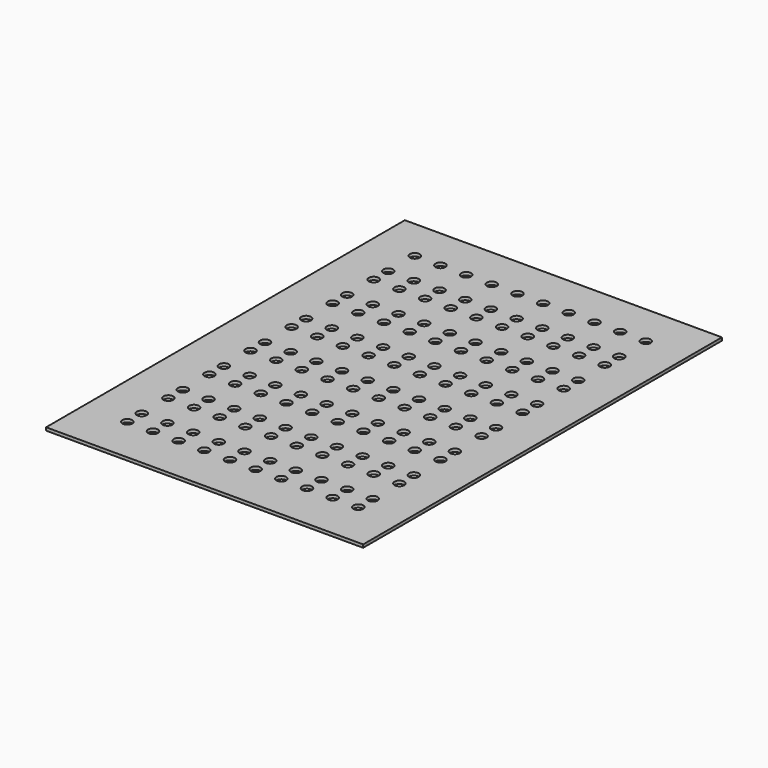
from build123d import *

# Parameters (mm, degrees)
F0_W     = 210
F0_H     = 297
F0_R     = 3.25
F1_DEPTH = 2


with BuildPart() as f1:
    # F0 (on Top) → F1 (new body)
    with BuildSketch(Plane.XY):
        Rectangle(F0_W, F0_H)
        with Locations((-76, -117.5)):
            Circle(F0_R, mode=Mode.SUBTRACT)
        with Locations((-59, -117.5)):
            Circle(F0_R, mode=Mode.SUBTRACT)
        with Locations((-76, -105.5)):
            Circle(F0_R, mode=Mode.SUBTRACT)
        with Locations((-59, -105.5)):
            Circle(F0_R, mode=Mode.SUBTRACT)
        with Locations((-76, -83.5)):
            Circle(F0_R, mode=Mode.SUBTRACT)
        with Locations((-59, -83.5)):
            Circle(F0_R, mode=Mode.SUBTRACT)
        with Locations((-42, -117.5)):
            Circle(F0_R, mode=Mode.SUBTRACT)
        with Locations((-25, -117.5)):
            Circle(F0_R, mode=Mode.SUBTRACT)
        with Locations((-8, -117.5)):
            Circle(F0_R, mode=Mode.SUBTRACT)
        with Locations((-42, -105.5)):
            Circle(F0_R, mode=Mode.SUBTRACT)
        with Locations((-42, -83.5)):
            Circle(F0_R, mode=Mode.SUBTRACT)
        with Locations((-25, -105.5)):
            Circle(F0_R, mode=Mode.SUBTRACT)
        with Locations((-8, -105.5)):
            Circle(F0_R, mode=Mode.SUBTRACT)
        with Locations((-25, -83.5)):
            Circle(F0_R, mode=Mode.SUBTRACT)
        with Locations((-8, -83.5)):
            Circle(F0_R, mode=Mode.SUBTRACT)
        with Locations((-76, -71.5)):
            Circle(F0_R, mode=Mode.SUBTRACT)
        with Locations((-59, -71.5)):
            Circle(F0_R, mode=Mode.SUBTRACT)
        with Locations((-76, -49.5)):
            Circle(F0_R, mode=Mode.SUBTRACT)
        with Locations((-76, -37.5)):
            Circle(F0_R, mode=Mode.SUBTRACT)
        with Locations((-59, -49.5)):
            Circle(F0_R, mode=Mode.SUBTRACT)
        with Locations((-59, -37.5)):
            Circle(F0_R, mode=Mode.SUBTRACT)
        with Locations((-76, -15.5)):
            Circle(F0_R, mode=Mode.SUBTRACT)
        with Locations((-76, -3.5)):
            Circle(F0_R, mode=Mode.SUBTRACT)
        with Locations((-59, -15.5)):
            Circle(F0_R, mode=Mode.SUBTRACT)
        with Locations((-59, -3.5)):
            Circle(F0_R, mode=Mode.SUBTRACT)
        with Locations((-42, -71.5)):
            Circle(F0_R, mode=Mode.SUBTRACT)
        with Locations((-42, -49.5)):
            Circle(F0_R, mode=Mode.SUBTRACT)
        with Locations((-42, -37.5)):
            Circle(F0_R, mode=Mode.SUBTRACT)
        with Locations((-25, -71.5)):
            Circle(F0_R, mode=Mode.SUBTRACT)
        with Locations((-8, -71.5)):
            Circle(F0_R, mode=Mode.SUBTRACT)
        with Locations((-25, -49.5)):
            Circle(F0_R, mode=Mode.SUBTRACT)
        with Locations((-25, -37.5)):
            Circle(F0_R, mode=Mode.SUBTRACT)
        with Locations((-8, -49.5)):
            Circle(F0_R, mode=Mode.SUBTRACT)
        with Locations((-8, -37.5)):
            Circle(F0_R, mode=Mode.SUBTRACT)
        with Locations((-42, -15.5)):
            Circle(F0_R, mode=Mode.SUBTRACT)
        with Locations((-42, -3.5)):
            Circle(F0_R, mode=Mode.SUBTRACT)
        with Locations((-25, -15.5)):
            Circle(F0_R, mode=Mode.SUBTRACT)
        with Locations((-25, -3.5)):
            Circle(F0_R, mode=Mode.SUBTRACT)
        with Locations((-8, -15.5)):
            Circle(F0_R, mode=Mode.SUBTRACT)
        with Locations((-8, -3.5)):
            Circle(F0_R, mode=Mode.SUBTRACT)
        with Locations((9, -117.5)):
            Circle(F0_R, mode=Mode.SUBTRACT)
        with Locations((26, -117.5)):
            Circle(F0_R, mode=Mode.SUBTRACT)
        with Locations((43, -117.5)):
            Circle(F0_R, mode=Mode.SUBTRACT)
        with Locations((9, -105.5)):
            Circle(F0_R, mode=Mode.SUBTRACT)
        with Locations((26, -105.5)):
            Circle(F0_R, mode=Mode.SUBTRACT)
        with Locations((9, -83.5)):
            Circle(F0_R, mode=Mode.SUBTRACT)
        with Locations((26, -83.5)):
            Circle(F0_R, mode=Mode.SUBTRACT)
        with Locations((43, -105.5)):
            Circle(F0_R, mode=Mode.SUBTRACT)
        with Locations((43, -83.5)):
            Circle(F0_R, mode=Mode.SUBTRACT)
        with Locations((60, -117.5)):
            Circle(F0_R, mode=Mode.SUBTRACT)
        with Locations((77, -117.5)):
            Circle(F0_R, mode=Mode.SUBTRACT)
        with Locations((60, -105.5)):
            Circle(F0_R, mode=Mode.SUBTRACT)
        with Locations((77, -105.5)):
            Circle(F0_R, mode=Mode.SUBTRACT)
        with Locations((60, -83.5)):
            Circle(F0_R, mode=Mode.SUBTRACT)
        with Locations((77, -83.5)):
            Circle(F0_R, mode=Mode.SUBTRACT)
        with Locations((9, -71.5)):
            Circle(F0_R, mode=Mode.SUBTRACT)
        with Locations((26, -71.5)):
            Circle(F0_R, mode=Mode.SUBTRACT)
        with Locations((9, -49.5)):
            Circle(F0_R, mode=Mode.SUBTRACT)
        with Locations((9, -37.5)):
            Circle(F0_R, mode=Mode.SUBTRACT)
        with Locations((26, -49.5)):
            Circle(F0_R, mode=Mode.SUBTRACT)
        with Locations((26, -37.5)):
            Circle(F0_R, mode=Mode.SUBTRACT)
        with Locations((43, -71.5)):
            Circle(F0_R, mode=Mode.SUBTRACT)
        with Locations((43, -49.5)):
            Circle(F0_R, mode=Mode.SUBTRACT)
        with Locations((43, -37.5)):
            Circle(F0_R, mode=Mode.SUBTRACT)
        with Locations((9, -15.5)):
            Circle(F0_R, mode=Mode.SUBTRACT)
        with Locations((9, -3.5)):
            Circle(F0_R, mode=Mode.SUBTRACT)
        with Locations((26, -15.5)):
            Circle(F0_R, mode=Mode.SUBTRACT)
        with Locations((26, -3.5)):
            Circle(F0_R, mode=Mode.SUBTRACT)
        with Locations((43, -15.5)):
            Circle(F0_R, mode=Mode.SUBTRACT)
        with Locations((43, -3.5)):
            Circle(F0_R, mode=Mode.SUBTRACT)
        with Locations((60, -71.5)):
            Circle(F0_R, mode=Mode.SUBTRACT)
        with Locations((77, -71.5)):
            Circle(F0_R, mode=Mode.SUBTRACT)
        with Locations((60, -49.5)):
            Circle(F0_R, mode=Mode.SUBTRACT)
        with Locations((60, -37.5)):
            Circle(F0_R, mode=Mode.SUBTRACT)
        with Locations((77, -49.5)):
            Circle(F0_R, mode=Mode.SUBTRACT)
        with Locations((77, -37.5)):
            Circle(F0_R, mode=Mode.SUBTRACT)
        with Locations((60, -15.5)):
            Circle(F0_R, mode=Mode.SUBTRACT)
        with Locations((60, -3.5)):
            Circle(F0_R, mode=Mode.SUBTRACT)
        with Locations((77, -15.5)):
            Circle(F0_R, mode=Mode.SUBTRACT)
        with Locations((77, -3.5)):
            Circle(F0_R, mode=Mode.SUBTRACT)
        with Locations((-76, 18.5)):
            Circle(F0_R, mode=Mode.SUBTRACT)
        with Locations((-59, 18.5)):
            Circle(F0_R, mode=Mode.SUBTRACT)
        with Locations((-76, 30.5)):
            Circle(F0_R, mode=Mode.SUBTRACT)
        with Locations((-59, 30.5)):
            Circle(F0_R, mode=Mode.SUBTRACT)
        with Locations((-76, 52.5)):
            Circle(F0_R, mode=Mode.SUBTRACT)
        with Locations((-59, 52.5)):
            Circle(F0_R, mode=Mode.SUBTRACT)
        with Locations((-76, 64.5)):
            Circle(F0_R, mode=Mode.SUBTRACT)
        with Locations((-59, 64.5)):
            Circle(F0_R, mode=Mode.SUBTRACT)
        with Locations((-42, 18.5)):
            Circle(F0_R, mode=Mode.SUBTRACT)
        with Locations((-42, 30.5)):
            Circle(F0_R, mode=Mode.SUBTRACT)
        with Locations((-25, 18.5)):
            Circle(F0_R, mode=Mode.SUBTRACT)
        with Locations((-8, 18.5)):
            Circle(F0_R, mode=Mode.SUBTRACT)
        with Locations((-25, 30.5)):
            Circle(F0_R, mode=Mode.SUBTRACT)
        with Locations((-8, 30.5)):
            Circle(F0_R, mode=Mode.SUBTRACT)
        with Locations((-42, 52.5)):
            Circle(F0_R, mode=Mode.SUBTRACT)
        with Locations((-42, 64.5)):
            Circle(F0_R, mode=Mode.SUBTRACT)
        with Locations((-25, 52.5)):
            Circle(F0_R, mode=Mode.SUBTRACT)
        with Locations((-8, 52.5)):
            Circle(F0_R, mode=Mode.SUBTRACT)
        with Locations((-25, 64.5)):
            Circle(F0_R, mode=Mode.SUBTRACT)
        with Locations((-8, 64.5)):
            Circle(F0_R, mode=Mode.SUBTRACT)
        with Locations((-76, 86.5)):
            Circle(F0_R, mode=Mode.SUBTRACT)
        with Locations((-59, 86.5)):
            Circle(F0_R, mode=Mode.SUBTRACT)
        with Locations((-76, 98.5)):
            Circle(F0_R, mode=Mode.SUBTRACT)
        with Locations((-59, 98.5)):
            Circle(F0_R, mode=Mode.SUBTRACT)
        with Locations((-76, 120.5)):
            Circle(F0_R, mode=Mode.SUBTRACT)
        with Locations((-59, 120.5)):
            Circle(F0_R, mode=Mode.SUBTRACT)
        with Locations((-42, 86.5)):
            Circle(F0_R, mode=Mode.SUBTRACT)
        with Locations((-42, 98.5)):
            Circle(F0_R, mode=Mode.SUBTRACT)
        with Locations((-25, 86.5)):
            Circle(F0_R, mode=Mode.SUBTRACT)
        with Locations((-8, 86.5)):
            Circle(F0_R, mode=Mode.SUBTRACT)
        with Locations((-25, 98.5)):
            Circle(F0_R, mode=Mode.SUBTRACT)
        with Locations((-8, 98.5)):
            Circle(F0_R, mode=Mode.SUBTRACT)
        with Locations((-42, 120.5)):
            Circle(F0_R, mode=Mode.SUBTRACT)
        with Locations((-25, 120.5)):
            Circle(F0_R, mode=Mode.SUBTRACT)
        with Locations((-8, 120.5)):
            Circle(F0_R, mode=Mode.SUBTRACT)
        with Locations((9, 18.5)):
            Circle(F0_R, mode=Mode.SUBTRACT)
        with Locations((26, 18.5)):
            Circle(F0_R, mode=Mode.SUBTRACT)
        with Locations((9, 30.5)):
            Circle(F0_R, mode=Mode.SUBTRACT)
        with Locations((26, 30.5)):
            Circle(F0_R, mode=Mode.SUBTRACT)
        with Locations((43, 18.5)):
            Circle(F0_R, mode=Mode.SUBTRACT)
        with Locations((43, 30.5)):
            Circle(F0_R, mode=Mode.SUBTRACT)
        with Locations((9, 52.5)):
            Circle(F0_R, mode=Mode.SUBTRACT)
        with Locations((26, 52.5)):
            Circle(F0_R, mode=Mode.SUBTRACT)
        with Locations((9, 64.5)):
            Circle(F0_R, mode=Mode.SUBTRACT)
        with Locations((26, 64.5)):
            Circle(F0_R, mode=Mode.SUBTRACT)
        with Locations((43, 52.5)):
            Circle(F0_R, mode=Mode.SUBTRACT)
        with Locations((43, 64.5)):
            Circle(F0_R, mode=Mode.SUBTRACT)
        with Locations((60, 18.5)):
            Circle(F0_R, mode=Mode.SUBTRACT)
        with Locations((77, 18.5)):
            Circle(F0_R, mode=Mode.SUBTRACT)
        with Locations((60, 30.5)):
            Circle(F0_R, mode=Mode.SUBTRACT)
        with Locations((77, 30.5)):
            Circle(F0_R, mode=Mode.SUBTRACT)
        with Locations((60, 52.5)):
            Circle(F0_R, mode=Mode.SUBTRACT)
        with Locations((77, 52.5)):
            Circle(F0_R, mode=Mode.SUBTRACT)
        with Locations((60, 64.5)):
            Circle(F0_R, mode=Mode.SUBTRACT)
        with Locations((77, 64.5)):
            Circle(F0_R, mode=Mode.SUBTRACT)
        with Locations((9, 86.5)):
            Circle(F0_R, mode=Mode.SUBTRACT)
        with Locations((26, 86.5)):
            Circle(F0_R, mode=Mode.SUBTRACT)
        with Locations((9, 98.5)):
            Circle(F0_R, mode=Mode.SUBTRACT)
        with Locations((26, 98.5)):
            Circle(F0_R, mode=Mode.SUBTRACT)
        with Locations((43, 86.5)):
            Circle(F0_R, mode=Mode.SUBTRACT)
        with Locations((43, 98.5)):
            Circle(F0_R, mode=Mode.SUBTRACT)
        with Locations((9, 120.5)):
            Circle(F0_R, mode=Mode.SUBTRACT)
        with Locations((26, 120.5)):
            Circle(F0_R, mode=Mode.SUBTRACT)
        with Locations((43, 120.5)):
            Circle(F0_R, mode=Mode.SUBTRACT)
        with Locations((60, 86.5)):
            Circle(F0_R, mode=Mode.SUBTRACT)
        with Locations((77, 86.5)):
            Circle(F0_R, mode=Mode.SUBTRACT)
        with Locations((60, 98.5)):
            Circle(F0_R, mode=Mode.SUBTRACT)
        with Locations((77, 98.5)):
            Circle(F0_R, mode=Mode.SUBTRACT)
        with Locations((60, 120.5)):
            Circle(F0_R, mode=Mode.SUBTRACT)
        with Locations((77, 120.5)):
            Circle(F0_R, mode=Mode.SUBTRACT)
    extrude(amount=F1_DEPTH)


solid = f1.part
